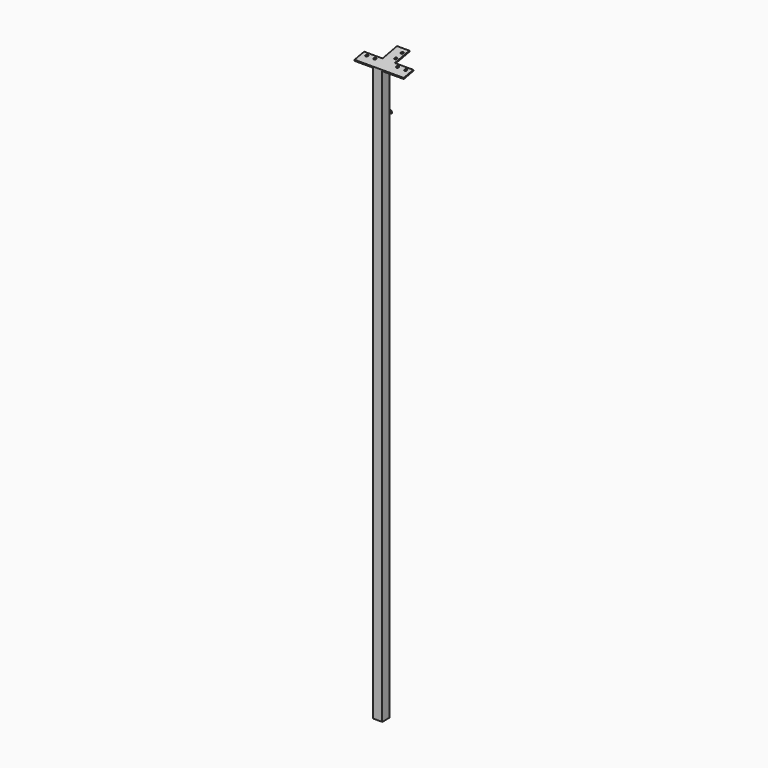
from build123d import *

# Parameters (mm, degrees)
F0_W          = 45
F0_H          = 45
F1_DEPTH      = 2795
F3_W          = 45
F3_H          = 60
F3_W_2        = 90
F4_DEPTH      = 5
F6_DEPTH      = 45
F8_W          = 2.7798460424
F8_H          = 5.7082939148
F9_DEPTH      = 150
F9_DEPTH_BACK = 90
F10_R         = 6
F11_DEPTH     = 5
F15_DEPTH     = 30


with BuildPart() as f1:
    # F0 (on Top) → F1 (new body)
    with BuildSketch(Plane.XY):
        Rectangle(F0_W, F0_H)
    extrude(amount=F1_DEPTH)


with BuildPart() as f4:
    # F3 (on face) → F4 (new body)
    with BuildSketch(Plane(origin=(0, -524.3318959349, 2697.453760933), x_dir=(1, 0, 0), z_dir=(0, -0.1908089954, 0.9816271834))):
        with Locations((0, 541.2245304499)):
            Rectangle(F3_W, F3_H)
        with Locations((-67.5, 541.2245304499)):
            Rectangle(F3_W_2, F3_H)
        Polygon((22.5, 571.2245304499), (22.5, 511.2245304499), (37.5, 511.2245304499), (37.5, 571.2245304499), (37.5, 661.2245304499), (-22.5, 661.2245304499), (-22.5, 571.2245304499), align=None)
        with Locations((82.5, 541.2245304499)):
            Rectangle(F3_W_2, F3_H)
    extrude(amount=F4_DEPTH)


with BuildPart() as f6:
    # F5 (on face) → F6 (new body)
    with BuildSketch(Plane.YZ.offset(22.5)):
        Polygon((-22.5, 2795), (22.5, 2795), (22.5, 2803.7471139112), align=None)
    extrude(amount=-F6_DEPTH)


with BuildPart() as f1_1:
    add(f1.part)

    # F7: union F6, F4
    add(f6.part)
    add(f4.part)

    # F8 (on face) → F9 (cut, two sides)
    with BuildSketch(Plane(origin=(-22.5, 0, 0), x_dir=(0, -1, 0), z_dir=(-1, 0, 0))) as f9_sk:
        with Locations((23.8899230212, 2797.8541469574)):
            Rectangle(F8_W, F8_H)
    extrude(amount=-F9_DEPTH, mode=Mode.SUBTRACT)
    extrude(f9_sk.sketch, amount=F9_DEPTH_BACK, mode=Mode.SUBTRACT)

    # F10 (on face) → F11 (cut, through all)
    with BuildSketch(Plane(origin=(0, -525.2859409117, 2702.3618968503), x_dir=(1, 0, 0), z_dir=(0, -0.1908089954, 0.9816271834))):
        with BuildLine():
            ThreePointArc((108.5, 556.2245304499), (106.7426406871, 560.467171137), (102.5, 562.2245304499))
            Line((102.5, 562.2245304499), (102.5, 556.2245304499))
            Line((102.5, 556.2245304499), (96.5, 556.2245304499))
            ThreePointArc((96.5, 556.2245304499), (102.5, 550.2245304499), (108.5, 556.2245304499))
        make_face()
        with Locations((62.5, 556.2245304499)):
            Circle(F10_R)
        with BuildLine():
            Line((102.5, 556.2245304499), (102.5, 562.2245304499))
            ThreePointArc((102.5, 562.2245304499), (98.2573593129, 560.467171137), (96.5, 556.2245304499))
            Line((96.5, 556.2245304499), (102.5, 556.2245304499))
        make_face()
        with BuildLine():
            ThreePointArc((22.5, 630.2245304499), (26.7426406871, 631.9818897628), (28.5, 636.2245304499))
            Line((28.5, 636.2245304499), (22.5, 636.2245304499))
            Line((22.5, 636.2245304499), (22.5, 630.2245304499))
        make_face()
        with BuildLine():
            Line((22.5, 636.2245304499), (28.5, 636.2245304499))
            ThreePointArc((28.5, 636.2245304499), (18.2573593129, 640.467171137), (22.5, 630.2245304499))
            Line((22.5, 630.2245304499), (22.5, 636.2245304499))
        make_face()
        with BuildLine():
            ThreePointArc((28.5, 596.2245304499), (26.7426406871, 600.467171137), (22.5, 602.2245304499))
            ThreePointArc((22.5, 602.2245304499), (18.2573593129, 591.9818897628), (28.5, 596.2245304499))
        make_face()
        with Locations((-47.5, 556.2245304499)):
            Circle(F10_R)
        with Locations((-87.5, 556.2245304499)):
            Circle(F10_R)
    extrude(amount=-F11_DEPTH, mode=Mode.SUBTRACT)

    # F14 (on offset) → F15 (join)
    with BuildSketch(Plane.XY.offset(2545)):
        with BuildLine():
            Line((0, 27.5), (5, 27.5))
            ThreePointArc((5, 27.5), (0, 32.5), (-5, 27.5))
            Line((-5, 27.5), (0, 27.5))
        make_face()
        with BuildLine():
            Line((5, 22.5), (5, 27.5))
            ThreePointArc((5, 27.5), (3.5355339059, 23.9644660941), (0, 22.5))
            Line((0, 22.5), (5, 22.5))
        make_face()
        with BuildLine():
            ThreePointArc((0, 22.5), (3.5355339059, 23.9644660941), (5, 27.5))
            Line((5, 27.5), (0, 27.5))
            Line((0, 27.5), (0, 22.5))
        make_face()
        with BuildLine():
            Line((0, 27.5), (-5, 27.5))
            ThreePointArc((-5, 27.5), (-3.5355339059, 23.9644660941), (0, 22.5))
            Line((0, 22.5), (0, 27.5))
        make_face()
        with BuildLine():
            ThreePointArc((0, 22.5), (-3.5355339059, 23.9644660941), (-5, 27.5))
            Line((-5, 27.5), (-5, 22.5))
            Line((-5, 22.5), (0, 22.5))
        make_face()
    extrude(amount=F15_DEPTH)

    # F17: sweep along a path in F13
    with BuildLine(Plane.YZ) as f17_path:
        ThreePointArc((57.5, 2575), (42.5, 2590), (27.5, 2575))
    # F16 (on face) → F17 (sweep)
    with BuildSketch(Plane.XY.offset(2575)):
        with BuildLine():
            ThreePointArc((0, 22.5), (3.5355339059, 23.9644660941), (5, 27.5))
            ThreePointArc((5, 27.5), (0, 32.5), (-5, 27.5))
            ThreePointArc((-5, 27.5), (-3.5355339059, 23.9644660941), (0, 22.5))
        make_face()
    sweep(path=f17_path.line)


solid = f1_1.part
